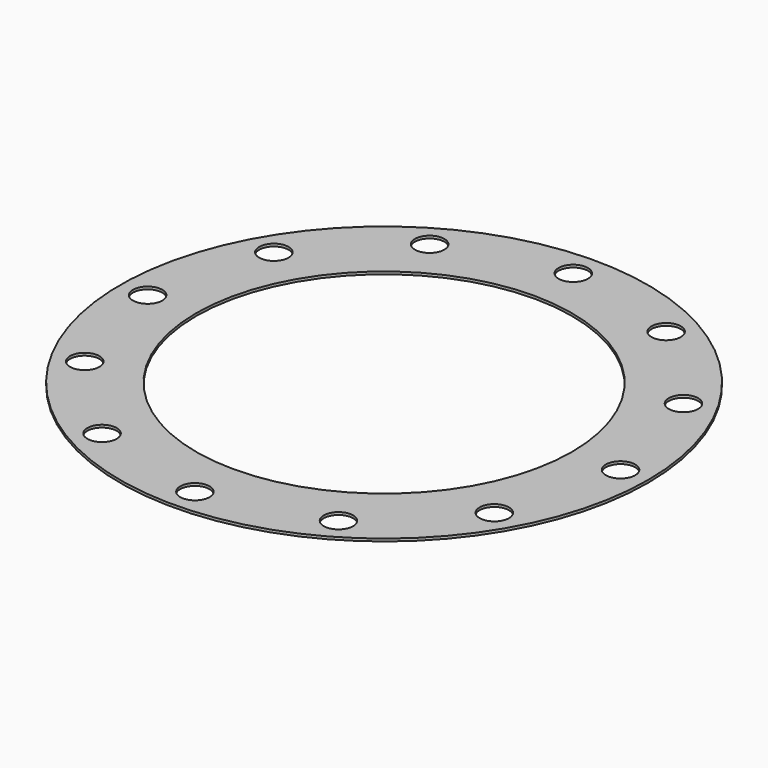
from build123d import *

# Parameters (mm, degrees)
F0_R     = 144
F0_R_2   = 8
F0_R_3   = 102.5
F1_DEPTH = 1.4


with BuildPart() as f1:
    # F0 (on Top) → F1 (new body)
    with BuildSketch(Plane.XY):
        Circle(F0_R)
        with Locations((-64.5, -111.717277)):
            Circle(F0_R_2, mode=Mode.SUBTRACT)
        with Locations((-111.717277, -64.5)):
            Circle(F0_R_2, mode=Mode.SUBTRACT)
        with Locations((0, -129)):
            Circle(F0_R_2, mode=Mode.SUBTRACT)
        with Locations((64.5, -111.717277)):
            Circle(F0_R_2, mode=Mode.SUBTRACT)
        with Locations((111.717277, -64.5)):
            Circle(F0_R_2, mode=Mode.SUBTRACT)
        with Locations((-129, 0)):
            Circle(F0_R_2, mode=Mode.SUBTRACT)
        with Locations((-111.717277, 64.5)):
            Circle(F0_R_2, mode=Mode.SUBTRACT)
        with Locations((-64.5, 111.717277)):
            Circle(F0_R_2, mode=Mode.SUBTRACT)
        Circle(F0_R_3, mode=Mode.SUBTRACT)
        with Locations((129, 0)):
            Circle(F0_R_2, mode=Mode.SUBTRACT)
        with Locations((111.717277, 64.5)):
            Circle(F0_R_2, mode=Mode.SUBTRACT)
        with Locations((0, 129)):
            Circle(F0_R_2, mode=Mode.SUBTRACT)
        with Locations((64.5, 111.717277)):
            Circle(F0_R_2, mode=Mode.SUBTRACT)
    extrude(amount=F1_DEPTH)


solid = f1.part
